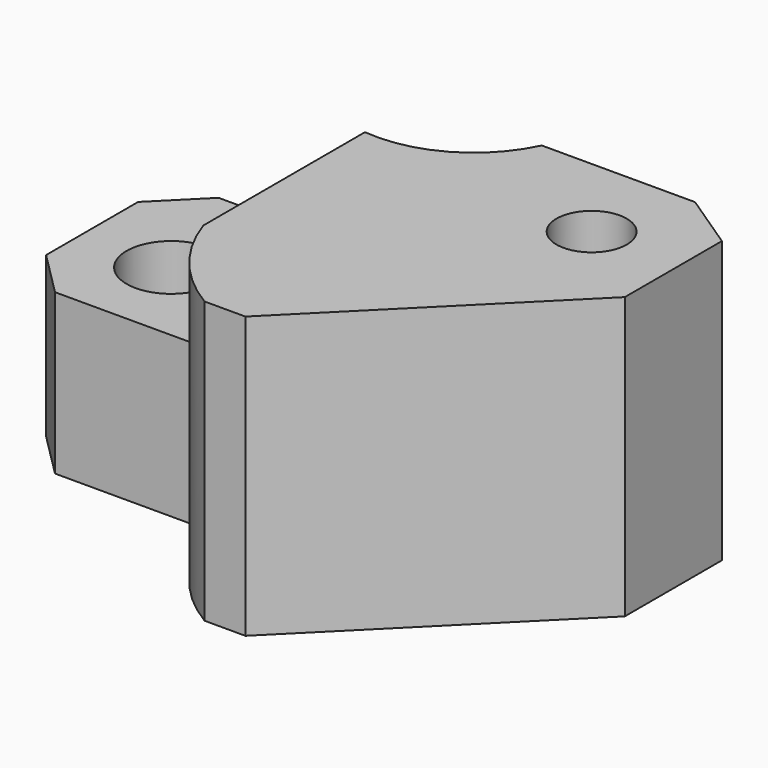
from build123d import *

# Parameters (mm, degrees)
F0_R     = 7
F0_R_2   = 5.5
F1_DEPTH = 44
F2_R     = 7
F3_DEPTH = 19


with BuildPart() as f1:
    # F0 (on Top) → F1 (new body)
    with BuildSketch(Plane.XY):
        with BuildLine():
            Line((-28.369482, 18.450219), (-35.369482, 11.450219))
            Line((-35.369482, 11.450219), (-35.369482, -6.549781))
            Line((-35.369482, -6.549781), (-28.369482, -13.549781))
            Line((-28.369482, -13.549781), (-7.182735, -13.549781))
            ThreePointArc((-7.182735, -13.549781), (-4.272748, -14.483828), (-2.449987, -16.936991))
            ThreePointArc((-2.449987, -16.936991), (2.500816, -25.88004), (10.246986, -32.549781))
            Line((10.246986, -32.549781), (16.630518, -32.549781))
            Line((16.630518, -32.549781), (49.630518, 0.450219))
            Line((49.630518, 0.450219), (49.630518, 19.450219))
            Line((49.630518, 19.450219), (40.630518, 25.450219))
            Line((40.630518, 25.450219), (16.630518, 25.450219))
            ThreePointArc((16.630518, 25.450219), (8.304904, 16.782132), (-3.55667, 14.844443))
            Line((-3.55667, 14.844443), (-21.369482, 18.450219))
            Line((-21.369482, 18.450219), (-28.369482, 18.450219))
        make_face()
        with Locations((-21.369482, 0.450219)):
            Circle(F0_R, mode=Mode.SUBTRACT)
        with Locations((35.630518, 11.450219)):
            Circle(F0_R_2, mode=Mode.SUBTRACT)
    extrude(amount=F1_DEPTH)

    # F2 (on face) → F3 (cut)
    with BuildSketch(Plane.XY.offset(44)):
        with BuildLine():
            Line((-2.449987, -16.936991), (-2.449987, 14.69919))
            ThreePointArc((-2.449987, 14.69919), (-3.004395, 14.763688), (-3.55667, 14.844443))
            Line((-3.55667, 14.844443), (-21.369482, 18.450219))
            Line((-21.369482, 18.450219), (-28.369482, 18.450219))
            Line((-28.369482, 18.450219), (-35.369482, 11.450219))
            Line((-35.369482, 11.450219), (-35.369482, -6.549781))
            Line((-35.369482, -6.549781), (-28.369482, -13.549781))
            Line((-28.369482, -13.549781), (-7.182735, -13.549781))
            ThreePointArc((-7.182735, -13.549781), (-4.272748, -14.483828), (-2.449987, -16.936991))
        make_face()
        with Locations((-21.369482, 0.450219)):
            Circle(F2_R, mode=Mode.SUBTRACT)
    extrude(amount=-F3_DEPTH, mode=Mode.SUBTRACT)


solid = f1.part
